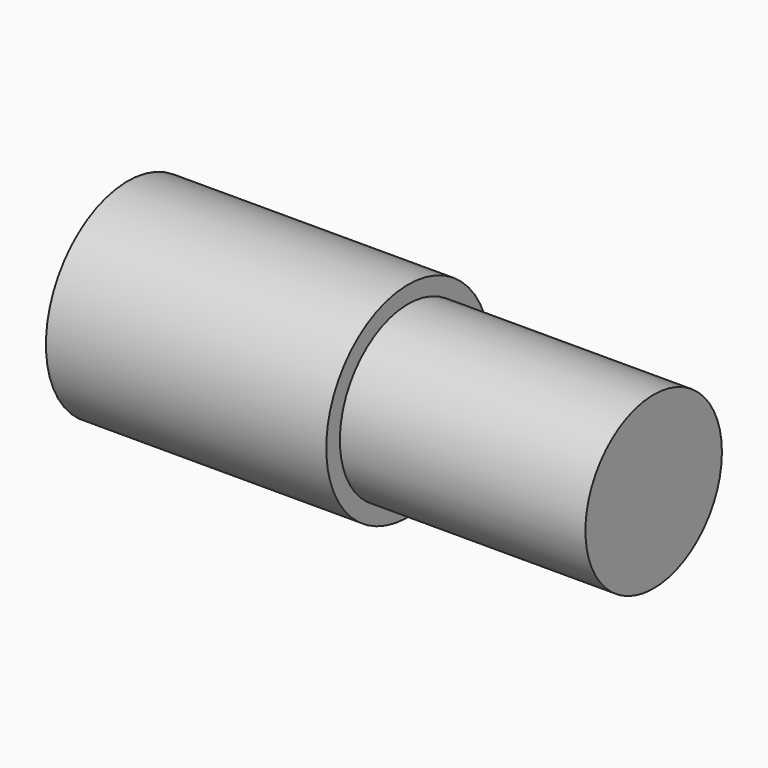
from build123d import *

# Parameters (mm, degrees)
F0_W = 7.19372
F0_H = 2.5


with BuildPart() as f1:
    # F0 (on Top) → F1 (revolve)
    with BuildSketch(Plane.XY):
        Polygon((0, 3), (0, 0), (8.212694, 0), (8.212694, 2.5), (8.212694, 3), align=None)
        with Locations((11.809554, 1.25)):
            Rectangle(F0_W, F0_H)
    revolve(axis=Axis((4.106347, 0, 0), (1, 0, 0)))


solid = f1.part
